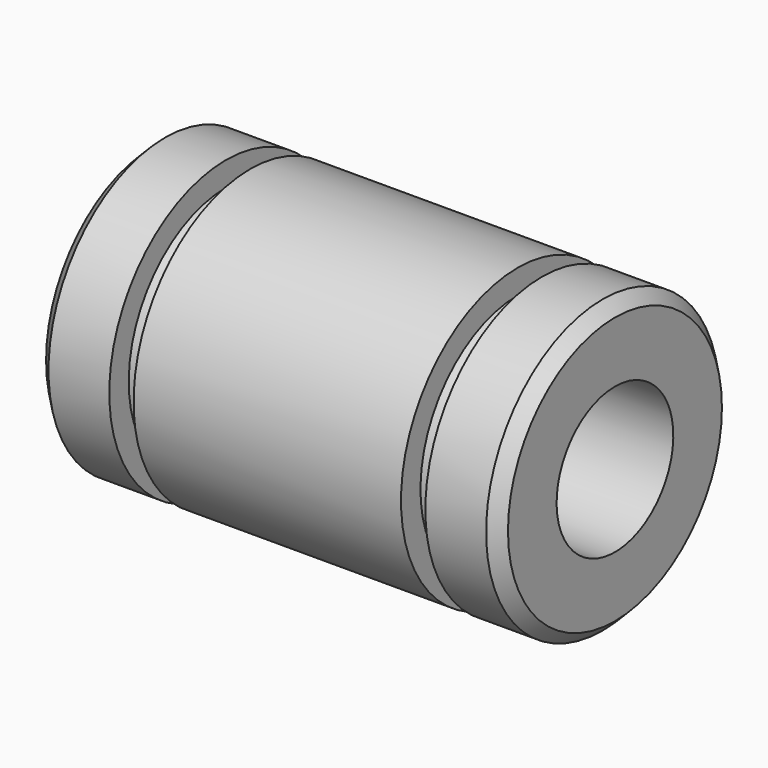
from build123d import *

# Parameters (mm, degrees)
F2_SIZE = 0.5


with BuildPart() as f1:
    # F0 (on Front) → F1 (revolve)
    with BuildSketch(Plane.XZ):
        Polygon((-9.5, 6), (-9.5, 3), (9.5, 3), (9.5, 6), (6.5, 6), (6.5, 5), (5.5, 5), (5.5, 6), (0, 6), (-5.5, 6), (-5.5, 5), (-6.5, 5), (-6.5, 6), align=None)
    revolve(axis=Axis((6.664423, 0, 0), (1, 0, 0)))

    # F2
    f2_edges = [f1.edges().sort_by_distance(p)[0] for p in [
        (-9.5, 0, -6),
        (9.5, 0, -6),
    ]]
    chamfer(f2_edges, length=F2_SIZE)


solid = f1.part
